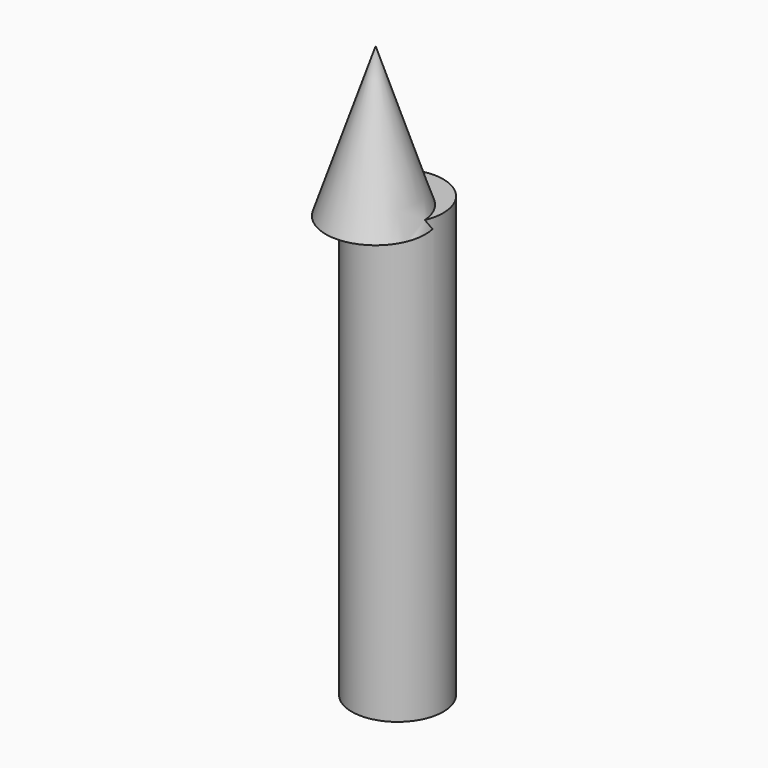
from build123d import *

# Parameters (mm, degrees)
F0_R     = 52.105977
F1_DEPTH = 500


with BuildPart() as f1:
    # F0 (on Top) → F1 (new body)
    with BuildSketch(Plane.XY):
        with Locations((-29.714983, 24.905546)):
            Circle(F0_R)
    extrude(amount=F1_DEPTH)

    # F2 (on Front) → F3 (revolve)
    with BuildSketch(Plane.XZ):
        Polygon((-91.470845, 488.63399), (-34.754019, 488.63399), (-34.754019, 658.854127), align=None)
    revolve(axis=Axis((-34.754019, 0, 573.744059), (0, 0, 1)))


solid = f1.part
